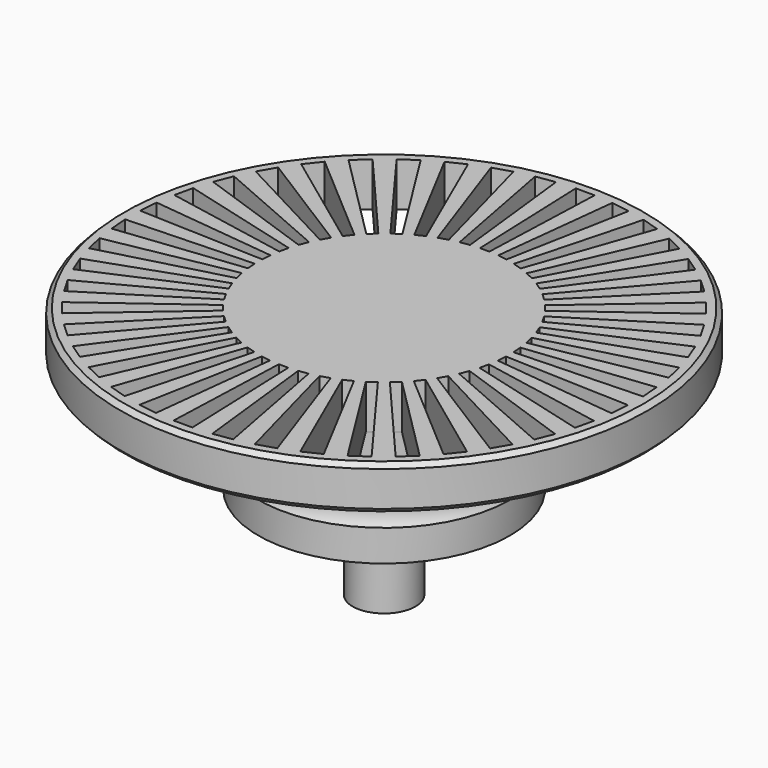
from build123d import *

# Parameters (mm, degrees)
POCKET_DEPTH       = 145.512483
POLARPATTERN_COUNT = 42


with BuildPart() as part:
    # Sketch → Revolution (revolve)
    with BuildSketch(Plane.XZ):
        with BuildLine():
            Line((0, 0), (2.5, 0))
            Line((2.5, 0), (2.5, 4.9))
            Line((2.5, 4.9), (4, 4.9))
            Line((4, 4.9), (4, 7.4))
            Line((4, 7.4), (10, 7.4))
            Line((10, 7.4), (10, 9.9))
            ThreePointArc((10, 12.1), (9.670329, 11), (10, 9.9))
            Line((10, 16.6), (10, 12.1))
            Line((10, 16.6), (20.646447, 16.6))
            Line((21, 16.953553), (20.646447, 16.6))
            Line((21, 19.746447), (21, 16.953553))
            Line((20.646447, 20.1), (21, 19.746447))
            Line((0, 20.1), (20.646447, 20.1))
            Line((0, 20.1), (0, 0))
        make_face()
    revolve(axis=Axis((0, 0, 0), (0, 0, 1)))

    # Sketch001 → Pocket (cut, through all)
    with BuildSketch(Plane.XY.offset(20.1)):
        Polygon((-0.75, 20), (0.75, 20), (0.375, 10), (-0.375, 10), align=None)
    pocket = extrude(amount=-POCKET_DEPTH, mode=Mode.SUBTRACT)

    # PolarPattern: Pocket ×42 about axis
    polarpattern_axis = Axis((0, 0, 20.1), (0, 0, 1))
    for i in range(1, POLARPATTERN_COUNT):
        add(pocket.rotate(polarpattern_axis, i * 360 / POLARPATTERN_COUNT), mode=Mode.SUBTRACT)


solid = part.part
